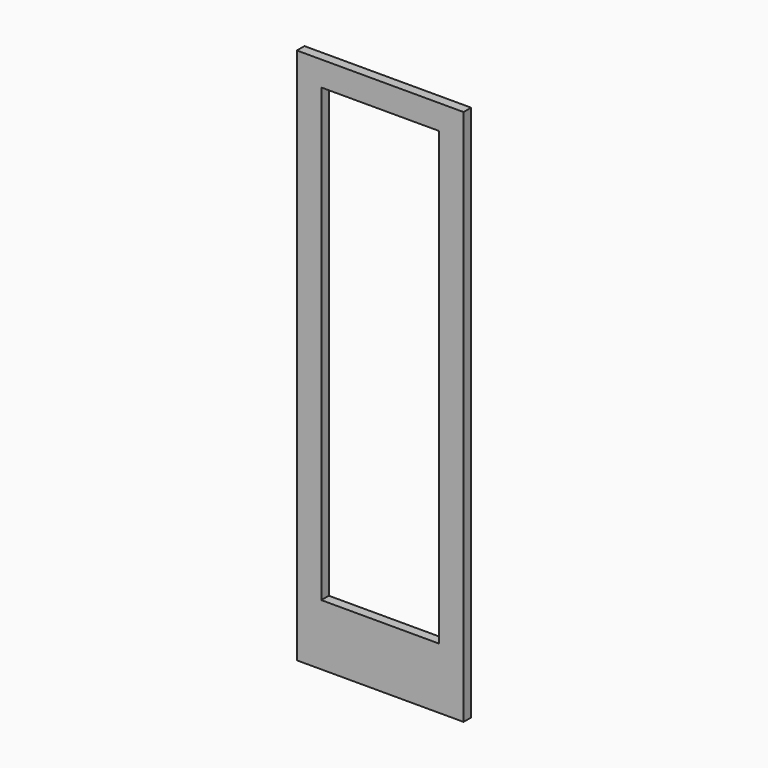
from build123d import *

# Parameters (mm, degrees)
F0_W     = 615
F0_H     = 1981
F1_DEPTH = 35
F2_W     = 435
F2_H     = 1665.104286
F3_DEPTH = 35.001


with BuildPart() as f1:
    # F0 (on Front) → F1 (new body)
    with BuildSketch(Plane.XZ):
        with Locations((-307.5, 990.5)):
            Rectangle(F0_W, F0_H)
    extrude(amount=F1_DEPTH)

    # F2 (on face) → F3 (cut, through all)
    with BuildSketch(Plane.XZ):
        with Locations((-307.5, 1057.552143)):
            Rectangle(F2_W, F2_H)
    extrude(amount=F3_DEPTH, mode=Mode.SUBTRACT)


solid = f1.part
